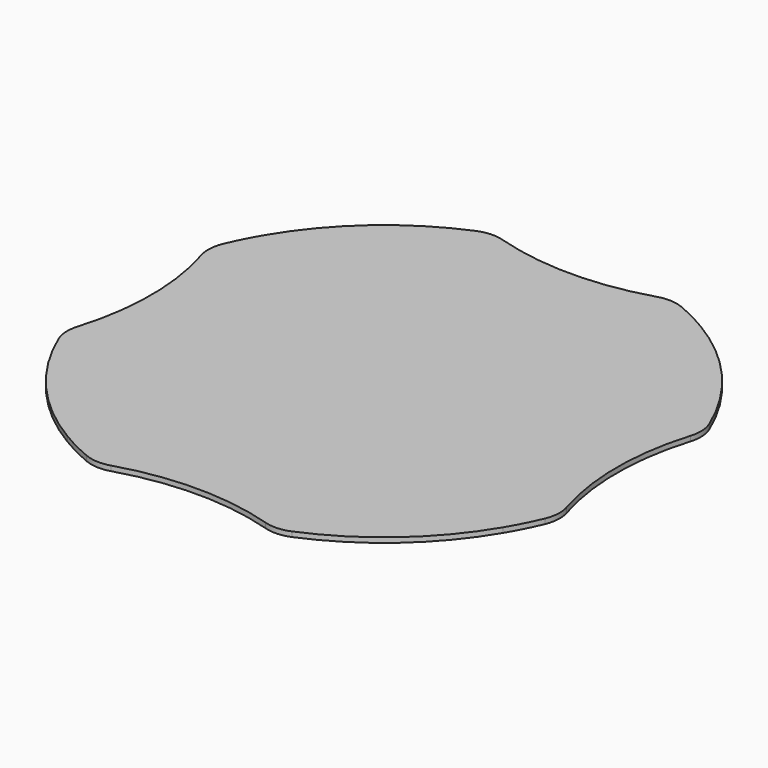
from build123d import *

# Parameters (mm, degrees)
PAD_DEPTH             = 1.6
POLARPATTERN_COUNT    = 4
POCKET_DEPTH          = 5
POLARPATTERN001_COUNT = 4
FILLET_R              = 12


with BuildPart() as part:
    # Sketch → Pad (new body)
    with BuildSketch(Plane.XY):
        with BuildLine():
            Line((0, 0), (-85, 0))
            ThreePointArc((-73.070068, 43.425398), (-81.963272, 22.517151), (-85, 0))
            ThreePointArc((0, 85), (-42.034755, 73.878816), (-73.070068, 43.425398))
            Line((0, 0), (0, 85))
        make_face()
    pad = extrude(amount=PAD_DEPTH)

    # PolarPattern: Pad ×4 about axis
    polarpattern_axis = Axis((0, 0, 0), (0, 0, 1))
    for i in range(1, POLARPATTERN_COUNT):
        add(pad.rotate(polarpattern_axis, i * 360 / POLARPATTERN_COUNT))

    # Sketch001 → Pocket (cut)
    with BuildSketch(Plane.XY):
        with BuildLine():
            ThreePointArc((-91.627857, -50.5), (-75, 0), (-91.627857, 50.5))
            Line((-91.627857, 50.5), (-91.627857, -50.5))
        make_face()
    pocket = extrude(amount=POCKET_DEPTH, mode=Mode.SUBTRACT)

    # PolarPattern001: Pocket ×4 about axis
    polarpattern001_axis = Axis((0, 0, 0), (0, 0, 1))
    for i in range(1, POLARPATTERN001_COUNT):
        add(pocket.rotate(polarpattern001_axis, i * 360 / POLARPATTERN001_COUNT), mode=Mode.SUBTRACT)

    # Fillet
    fillet_edges = [part.edges().sort_by_distance(p)[0] for p in [
        (-80, 28.722813, 0.8),
        (-80, -28.722813, 0.8),
        (-28.722813, 80, 0.8),
        (28.722813, 80, 0.8),
        (80, 28.722813, 0.8),
        (80, -28.722813, 0.8),
        (-28.722813, -80, 0.8),
        (28.722813, -80, 0.8),
    ]]
    fillet(fillet_edges, radius=FILLET_R)


solid = part.part
